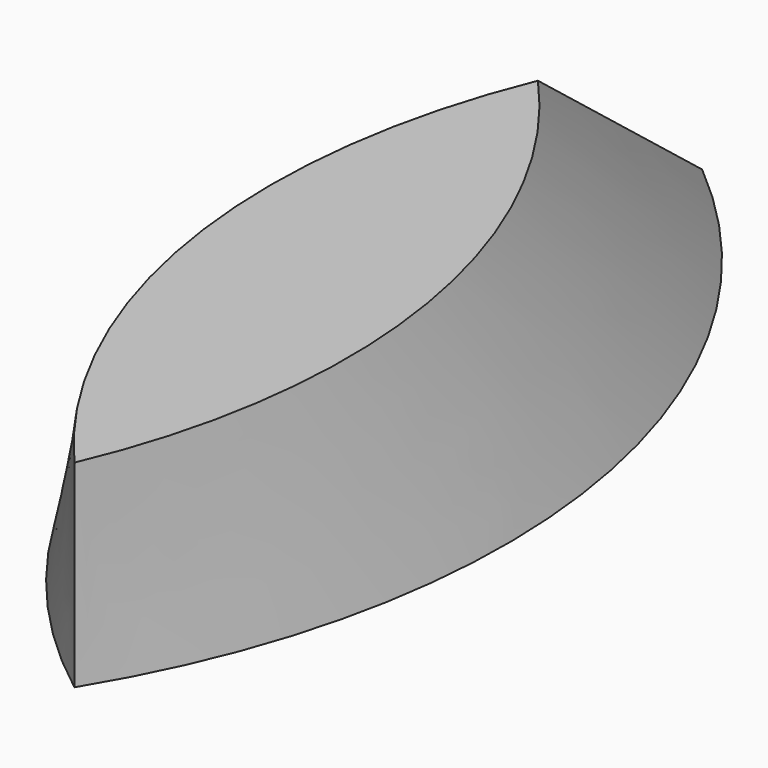
from build123d import *


with BuildPart() as f3:
    # F0 (on Top) → F3 section 0
    with BuildSketch(Plane.XY):
        with BuildLine():
            ThreePointArc((0, 0), (13.080351, 67.487131), (-21.108514, 127.125457))
            ThreePointArc((-21.108514, 127.125457), (-35.830172, 59.365796), (0, 0))
        make_face()
    # F2 (on offset) → F3 section 1
    with BuildSketch(Plane.XY.offset(25.4)):
        with BuildLine():
            ThreePointArc((0, 0), (6.003497, 49.172662), (-15.519309, 93.790613))
            ThreePointArc((-15.519309, 93.790613), (-21.095292, 44.68869), (0, 0))
        make_face()
    loft()


solid = f3.part
